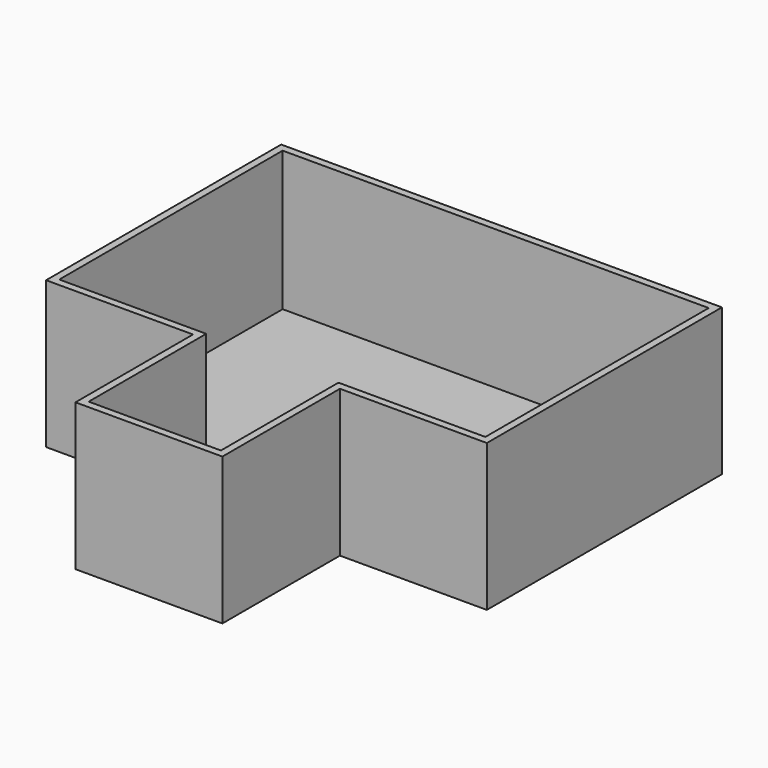
from build123d import *

# Parameters (mm, degrees)
F1_DEPTH = 3.81
F2_DEPTH = 76.2


with BuildPart() as f1:
    # F0 (on Top) → F1 (new body)
    with BuildSketch(Plane.XY):
        Polygon((0, -72.39), (0, 148.59), (-110.49, 148.59), (-110.49, 3.81), (-34.29, 3.81), (-34.29, -72.39), align=None)
        Polygon((110.49, 148.59), (0, 148.59), (0, -72.39), (34.29, -72.39), (34.29, 3.81), (110.49, 3.81), align=None)
    extrude(amount=F1_DEPTH)

    # F0 (on Top) → F2 (join)
    with BuildSketch(Plane.XY):
        Polygon((114.3, 152.4), (0, 152.4), (0, 148.59), (110.49, 148.59), (110.49, 3.81), (34.29, 3.81), (34.29, -72.39), (0, -72.39), (0, -76.2), (38.1, -76.2), (38.1, 0), (114.3, 0), align=None)
        Polygon((0, 148.59), (0, 152.4), (-114.3, 152.4), (-114.3, 0), (-38.1, 0), (-38.1, -76.2), (0, -76.2), (0, -72.39), (-34.29, -72.39), (-34.29, 3.81), (-110.49, 3.81), (-110.49, 148.59), align=None)
    extrude(amount=F2_DEPTH)


solid = f1.part
